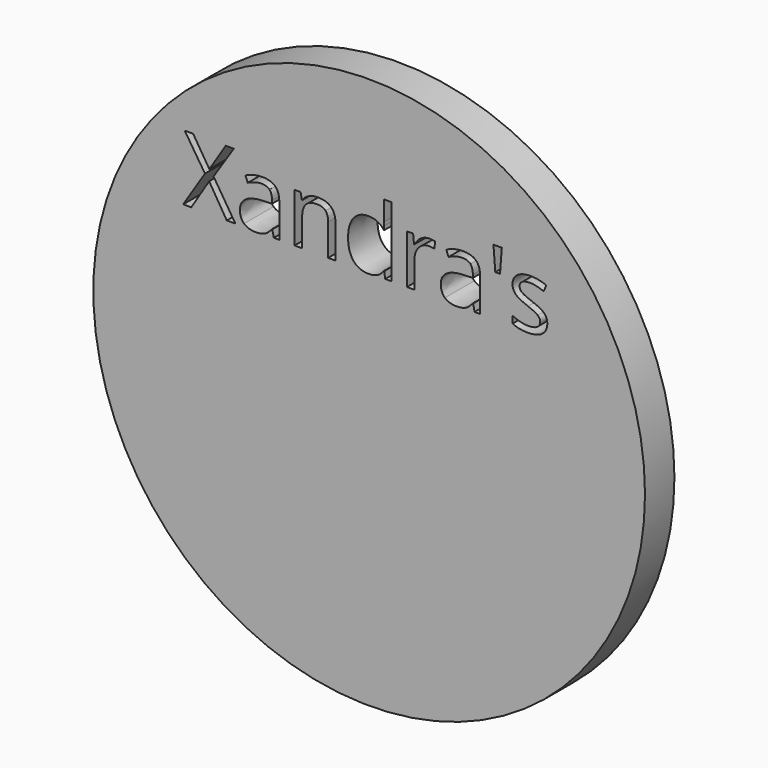
from build123d import *

# Parameters (mm, degrees)
F0_R     = 47.625
F1_DEPTH = 6.35


with BuildPart() as f1:
    # F0 (on Front) → F1 (new body)
    with BuildSketch(Plane.XZ):
        Circle(F0_R)
        Polygon((-26.8629209863, 24.0982941662), (-23.092664623, 18.1499421597), (-24.5834610735, 18.1499421597), (-27.6194445582, 23.1167913621), (-30.7098186264, 18.1499421597), (-32.1017231068, 18.1499421597), (-28.346300539, 24.0537927796), (-31.8470762836, 29.4458774539), (-30.3933643219, 29.4458774539), (-27.5897769671, 24.9710158031), (-24.7614666199, 29.4458774539), (-23.364617541, 29.4458774539), align=None, mode=Mode.SUBTRACT)
        with BuildLine():
            Line((-15.5125951084, 18.1499421597), (-16.4644303214, 18.1499421597))
            Line((-16.4644303214, 18.1499421597), (-16.7190771446, 19.3564241959))
            Line((-16.7190771446, 19.3564241959), (-16.780884626, 19.3564241959))
            add(Edge.make_bspline(
                [(-16.780884626, 19.3564241959), (-17.4137932352, 18.5603438359), (-18.0429933955, 18.2772655713)],
                knots=[0, 0, 0, 1, 1, 1], degree=2))
            add(Edge.make_bspline(
                [(-18.0429933955, 18.2772655713), (-18.6721935558, 17.9941873066), (-19.616611871, 17.9941873066)],
                knots=[0, 0, 0, 1, 1, 1], degree=2))
            add(Edge.make_bspline(
                [(-19.616611871, 17.9941873066), (-20.8750121916, 17.9941873066), (-21.5895066762, 18.6444020106)],
                knots=[0, 0, 0, 1, 1, 1], degree=2))
            add(Edge.make_bspline(
                [(-21.5895066762, 18.6444020106), (-22.3040011608, 19.2946167145), (-22.3040011608, 20.4912095538)],
                knots=[0, 0, 0, 1, 1, 1], degree=2))
            add(Edge.make_bspline(
                [(-22.3040011608, 20.4912095538), (-22.3040011608, 23.0549838808), (-18.2024566974, 23.1785988435)],
                knots=[0, 0, 0, 1, 1, 1], degree=2))
            Line((-18.2024566974, 23.1785988435), (-16.7660508305, 23.2255725294))
            Line((-16.7660508305, 23.2255725294), (-16.7660508305, 23.7521722706))
            add(Edge.make_bspline(
                [(-16.7660508305, 23.7521722706), (-16.7660508305, 24.7485088702), (-17.1937586015, 25.2231903271)],
                knots=[0, 0, 0, 1, 1, 1], degree=2))
            add(Edge.make_bspline(
                [(-17.1937586015, 25.2231903271), (-17.6214663726, 25.697871784), (-18.5658846878, 25.697871784)],
                knots=[0, 0, 0, 1, 1, 1], degree=2))
            add(Edge.make_bspline(
                [(-18.5658846878, 25.697871784), (-19.6240287688, 25.697871784), (-20.9590703663, 25.0501293792)],
                knots=[0, 0, 0, 1, 1, 1], degree=2))
            Line((-20.9590703663, 25.0501293792), (-21.354638247, 26.0316321833))
            add(Edge.make_bspline(
                [(-21.354638247, 26.0316321833), (-20.7291465356, 26.3703371812), (-19.9837483103, 26.5631765231)],
                knots=[0, 0, 0, 1, 1, 1], degree=2))
            add(Edge.make_bspline(
                [(-19.9837483103, 26.5631765231), (-19.2383500851, 26.7560158649), (-18.4867711117, 26.7560158649)],
                knots=[0, 0, 0, 1, 1, 1], degree=2))
            add(Edge.make_bspline(
                [(-18.4867711117, 26.7560158649), (-16.9737239679, 26.7560158649), (-16.2431595381, 26.0847866173)],
                knots=[0, 0, 0, 1, 1, 1], degree=2))
            add(Edge.make_bspline(
                [(-16.2431595381, 26.0847866173), (-15.5125951084, 25.4135573697), (-15.5125951084, 23.9301778169)],
                knots=[0, 0, 0, 1, 1, 1], degree=2))
            Line((-15.5125951084, 23.9301778169), (-15.5125951084, 18.1499421597))
        make_face(mode=Mode.SUBTRACT)
        with BuildLine():
            Line((-5.7939867386, 18.1499421597), (-7.0771100517, 18.1499421597))
            Line((-7.0771100517, 18.1499421597), (-7.0771100517, 23.6285573079))
            add(Edge.make_bspline(
                [(-7.0771100517, 23.6285573079), (-7.0771100517, 24.6619783963), (-7.5480830597, 25.1725081924)],
                knots=[0, 0, 0, 1, 1, 1], degree=2))
            add(Edge.make_bspline(
                [(-7.5480830597, 25.1725081924), (-8.0190560677, 25.6830379884), (-9.0252818643, 25.6830379884)],
                knots=[0, 0, 0, 1, 1, 1], degree=2))
            add(Edge.make_bspline(
                [(-9.0252818643, 25.6830379884), (-10.352906564, 25.6830379884), (-10.9709813777, 24.964835055)],
                knots=[0, 0, 0, 1, 1, 1], degree=2))
            add(Edge.make_bspline(
                [(-10.9709813777, 24.964835055), (-11.5890561913, 24.2466321215), (-11.5890561913, 22.5926639202)],
                knots=[0, 0, 0, 1, 1, 1], degree=2))
            Line((-11.5890561913, 22.5926639202), (-11.5890561913, 18.1499421597))
            Line((-11.5890561913, 18.1499421597), (-12.8721795045, 18.1499421597))
            Line((-12.8721795045, 18.1499421597), (-12.8721795045, 26.6175671067))
            Line((-12.8721795045, 26.6175671067), (-11.828869219, 26.6175671067))
            Line((-11.828869219, 26.6175671067), (-11.6211960817, 25.4580587563))
            Line((-11.6211960817, 25.4580587563), (-11.5593886003, 25.4580587563))
            add(Edge.make_bspline(
                [(-11.5593886003, 25.4580587563), (-11.1638207196, 26.0835504677), (-10.4530346839, 26.4284362137)],
                knots=[0, 0, 0, 1, 1, 1], degree=2))
            add(Edge.make_bspline(
                [(-10.4530346839, 26.4284362137), (-9.7422486482, 26.7733219597), (-8.8695270113, 26.7733219597)],
                knots=[0, 0, 0, 1, 1, 1], degree=2))
            add(Edge.make_bspline(
                [(-8.8695270113, 26.7733219597), (-7.3391737727, 26.7733219597), (-6.5665802556, 26.0353406322)],
                knots=[0, 0, 0, 1, 1, 1], degree=2))
            add(Edge.make_bspline(
                [(-6.5665802556, 26.0353406322), (-5.7939867386, 25.2973593047), (-5.7939867386, 23.6730586944)],
                knots=[0, 0, 0, 1, 1, 1], degree=2))
            Line((-5.7939867386, 23.6730586944), (-5.7939867386, 18.1499421597))
        make_face(mode=Mode.SUBTRACT)
        with BuildLine():
            add(Edge.make_bspline(
                [(8.9384445196, 26.324599645), (9.6034930191, 26.7733219597), (10.3995733791, 26.7733219597)],
                knots=[0, 0, 0, 1, 1, 1], degree=2))
            add(Edge.make_bspline(
                [(10.3995733791, 26.7733219597), (10.9632576091, 26.7733219597), (11.4107437742, 26.679374588)],
                knots=[0, 0, 0, 1, 1, 1], degree=2))
            Line((11.4107437742, 26.679374588), (11.2327382279, 25.4901986466))
            add(Edge.make_bspline(
                [(11.2327382279, 25.4901986466), (10.7086107859, 25.6063967115), (10.3056260074, 25.6063967115)],
                knots=[0, 0, 0, 1, 1, 1], degree=2))
            add(Edge.make_bspline(
                [(10.3056260074, 25.6063967115), (9.2771495175, 25.6063967115), (8.5478212374, 24.7719957131)],
                knots=[0, 0, 0, 1, 1, 1], degree=2))
            add(Edge.make_bspline(
                [(8.5478212374, 24.7719957131), (7.8184929573, 23.9375947147), (7.8184929573, 22.6940281896)],
                knots=[0, 0, 0, 1, 1, 1], degree=2))
            Line((7.8184929573, 22.6940281896), (7.8184929573, 18.1499421597))
            Line((7.8184929573, 18.1499421597), (6.5353696441, 18.1499421597))
            Line((6.5353696441, 18.1499421597), (6.5353696441, 26.6175671067))
            Line((6.5353696441, 26.6175671067), (7.5935137251, 26.6175671067))
            Line((7.5935137251, 26.6175671067), (7.7418516804, 25.0501293792))
            Line((7.7418516804, 25.0501293792), (7.8036591618, 25.0501293792))
            add(Edge.make_bspline(
                [(7.8036591618, 25.0501293792), (8.2733960201, 25.8758773303), (8.9384445196, 26.324599645)],
                knots=[0, 0, 0, 1, 1, 1], degree=2))
        make_face(mode=Mode.SUBTRACT)
        with BuildLine():
            Line((19.1539850396, 18.1499421597), (18.2021498266, 18.1499421597))
            Line((18.2021498266, 18.1499421597), (17.9475030034, 19.3564241959))
            Line((17.9475030034, 19.3564241959), (17.885695522, 19.3564241959))
            add(Edge.make_bspline(
                [(17.885695522, 19.3564241959), (17.2527869129, 18.5603438359), (16.6235867526, 18.2772655713)],
                knots=[0, 0, 0, 1, 1, 1], degree=2))
            add(Edge.make_bspline(
                [(16.6235867526, 18.2772655713), (15.9943865923, 17.9941873066), (15.049968277, 17.9941873066)],
                knots=[0, 0, 0, 1, 1, 1], degree=2))
            add(Edge.make_bspline(
                [(15.049968277, 17.9941873066), (13.7915679564, 17.9941873066), (13.0770734718, 18.6444020106)],
                knots=[0, 0, 0, 1, 1, 1], degree=2))
            add(Edge.make_bspline(
                [(13.0770734718, 18.6444020106), (12.3625789872, 19.2946167145), (12.3625789872, 20.4912095538)],
                knots=[0, 0, 0, 1, 1, 1], degree=2))
            add(Edge.make_bspline(
                [(12.3625789872, 20.4912095538), (12.3625789872, 23.0549838808), (16.4641234506, 23.1785988435)],
                knots=[0, 0, 0, 1, 1, 1], degree=2))
            Line((16.4641234506, 23.1785988435), (17.9005293176, 23.2255725294))
            Line((17.9005293176, 23.2255725294), (17.9005293176, 23.7521722706))
            add(Edge.make_bspline(
                [(17.9005293176, 23.7521722706), (17.9005293176, 24.7485088702), (17.4728215465, 25.2231903271)],
                knots=[0, 0, 0, 1, 1, 1], degree=2))
            add(Edge.make_bspline(
                [(17.4728215465, 25.2231903271), (17.0451137755, 25.697871784), (16.1006954602, 25.697871784)],
                knots=[0, 0, 0, 1, 1, 1], degree=2))
            add(Edge.make_bspline(
                [(16.1006954602, 25.697871784), (15.0425513792, 25.697871784), (13.7075097818, 25.0501293792)],
                knots=[0, 0, 0, 1, 1, 1], degree=2))
            Line((13.7075097818, 25.0501293792), (13.311941901, 26.0316321833))
            add(Edge.make_bspline(
                [(13.311941901, 26.0316321833), (13.9374336124, 26.3703371812), (14.6828318377, 26.5631765231)],
                knots=[0, 0, 0, 1, 1, 1], degree=2))
            add(Edge.make_bspline(
                [(14.6828318377, 26.5631765231), (15.428230063, 26.7560158649), (16.1798090364, 26.7560158649)],
                knots=[0, 0, 0, 1, 1, 1], degree=2))
            add(Edge.make_bspline(
                [(16.1798090364, 26.7560158649), (17.6928561802, 26.7560158649), (18.4234206099, 26.0847866173)],
                knots=[0, 0, 0, 1, 1, 1], degree=2))
            add(Edge.make_bspline(
                [(18.4234206099, 26.0847866173), (19.1539850396, 25.4135573697), (19.1539850396, 23.9301778169)],
                knots=[0, 0, 0, 1, 1, 1], degree=2))
            Line((19.1539850396, 23.9301778169), (19.1539850396, 18.1499421597))
        make_face(mode=Mode.SUBTRACT)
        with BuildLine():
            add(Edge.make_bspline(
                [(30.227413401, 21.8583910416), (30.7564854415, 21.3021237093), (30.7564854415, 20.4590696635)],
                knots=[0, 0, 0, 1, 1, 1], degree=2))
            add(Edge.make_bspline(
                [(30.7564854415, 20.4590696635), (30.7564854415, 19.2773106198), (29.8763469069, 18.6357489632)],
                knots=[0, 0, 0, 1, 1, 1], degree=2))
            add(Edge.make_bspline(
                [(29.8763469069, 18.6357489632), (28.9962083722, 17.9941873066), (27.4040476523, 17.9941873066)],
                knots=[0, 0, 0, 1, 1, 1], degree=2))
            add(Edge.make_bspline(
                [(27.4040476523, 17.9941873066), (25.7204118599, 17.9941873066), (24.7784658439, 18.5282039456)],
                knots=[0, 0, 0, 1, 1, 1], degree=2))
            Line((24.7784658439, 18.5282039456), (24.7784658439, 19.7173798871))
            add(Edge.make_bspline(
                [(24.7784658439, 19.7173798871), (25.3891237597, 19.4083424802), (26.0875482992, 19.2315730835)],
                knots=[0, 0, 0, 1, 1, 1], degree=2))
            add(Edge.make_bspline(
                [(26.0875482992, 19.2315730835), (26.7859728386, 19.0548036868), (27.4361875426, 19.0548036868)],
                knots=[0, 0, 0, 1, 1, 1], degree=2))
            add(Edge.make_bspline(
                [(27.4361875426, 19.0548036868), (28.4399410399, 19.0548036868), (28.9801384271, 19.3749664403)],
                knots=[0, 0, 0, 1, 1, 1], degree=2))
            add(Edge.make_bspline(
                [(28.9801384271, 19.3749664403), (29.5203358142, 19.6951291938), (29.5203358142, 20.3527607955)],
                knots=[0, 0, 0, 1, 1, 1], degree=2))
            add(Edge.make_bspline(
                [(29.5203358142, 20.3527607955), (29.5203358142, 20.8472206464), (29.0926280431, 21.1982871406)],
                knots=[0, 0, 0, 1, 1, 1], degree=2))
            add(Edge.make_bspline(
                [(29.0926280431, 21.1982871406), (28.6649202721, 21.5493536347), (27.4188814478, 22.0289796901)],
                knots=[0, 0, 0, 1, 1, 1], degree=2))
            add(Edge.make_bspline(
                [(27.4188814478, 22.0289796901), (26.2371224041, 22.4690489574), (25.7389541043, 22.7978647583)],
                knots=[0, 0, 0, 1, 1, 1], degree=2))
            add(Edge.make_bspline(
                [(25.7389541043, 22.7978647583), (25.2407858045, 23.1266805592), (24.9972643279, 23.5432629836)],
                knots=[0, 0, 0, 1, 1, 1], degree=2))
            add(Edge.make_bspline(
                [(24.9972643279, 23.5432629836), (24.7537428513, 23.959845408), (24.7537428513, 24.5383634335)],
                knots=[0, 0, 0, 1, 1, 1], degree=2))
            add(Edge.make_bspline(
                [(24.7537428513, 24.5383634335), (24.7537428513, 25.5742568212), (25.5967968971, 26.1737893905)],
                knots=[0, 0, 0, 1, 1, 1], degree=2))
            add(Edge.make_bspline(
                [(25.5967968971, 26.1737893905), (26.439850943, 26.7733219597), (27.9059244009, 26.7733219597)],
                knots=[0, 0, 0, 1, 1, 1], degree=2))
            add(Edge.make_bspline(
                [(27.9059244009, 26.7733219597), (29.2731058887, 26.7733219597), (30.5809521944, 26.2170546274)],
                knots=[0, 0, 0, 1, 1, 1], degree=2))
            Line((30.5809521944, 26.2170546274), (30.1235768323, 25.173744342))
            add(Edge.make_bspline(
                [(30.1235768323, 25.173744342), (28.8503427162, 25.697871784), (27.8144493285, 25.697871784)],
                knots=[0, 0, 0, 1, 1, 1], degree=2))
            add(Edge.make_bspline(
                [(27.8144493285, 25.697871784), (26.9021709036, 25.697871784), (26.4386147933, 25.41232122)],
                knots=[0, 0, 0, 1, 1, 1], degree=2))
            add(Edge.make_bspline(
                [(26.4386147933, 25.41232122), (25.9750586831, 25.1267706561), (25.9750586831, 24.6248939075)],
                knots=[0, 0, 0, 1, 1, 1], degree=2))
            add(Edge.make_bspline(
                [(25.9750586831, 24.6248939075), (25.9750586831, 24.2837166103), (26.1493557805, 24.0451397323)],
                knots=[0, 0, 0, 1, 1, 1], degree=2))
            add(Edge.make_bspline(
                [(26.1493557805, 24.0451397323), (26.323652878, 23.8065628542), (26.7093315617, 23.5902366694)],
                knots=[0, 0, 0, 1, 1, 1], degree=2))
            add(Edge.make_bspline(
                [(26.7093315617, 23.5902366694), (27.0950102454, 23.3739104846), (28.1927111145, 22.9635088084)],
                knots=[0, 0, 0, 1, 1, 1], degree=2))
            add(Edge.make_bspline(
                [(28.1927111145, 22.9635088084), (29.6983413605, 22.4146583738), (30.227413401, 21.8583910416)],
                knots=[0, 0, 0, 1, 1, 1], degree=2))
        make_face(mode=Mode.SUBTRACT)
        with BuildLine():
            Line((2.7725301786, 18.1499421597), (2.6019415301, 19.2847275175))
            Line((2.6019415301, 19.2847275175), (2.5327171509, 19.2847275175))
            add(Edge.make_bspline(
                [(2.5327171509, 19.2847275175), (1.6451617185, 17.9941873066), (-0.1250045478, 17.9941873066)],
                knots=[0, 0, 0, 1, 1, 1], degree=2))
            add(Edge.make_bspline(
                [(-0.1250045478, 17.9941873066), (-1.7863896468, 17.9941873066), (-2.7097934184, 19.1302088141)],
                knots=[0, 0, 0, 1, 1, 1], degree=2))
            add(Edge.make_bspline(
                [(-2.7097934184, 19.1302088141), (-3.63319719, 20.2662303216), (-3.63319719, 22.3602677902)],
                knots=[0, 0, 0, 1, 1, 1], degree=2))
            add(Edge.make_bspline(
                [(-3.63319719, 22.3602677902), (-3.63319719, 24.4543052589), (-2.7060849696, 25.6138136093)],
                knots=[0, 0, 0, 1, 1, 1], degree=2))
            add(Edge.make_bspline(
                [(-2.7060849696, 25.6138136093), (-1.7789727491, 26.7733219597), (-0.1250045478, 26.7733219597)],
                knots=[0, 0, 0, 1, 1, 1], degree=2))
            add(Edge.make_bspline(
                [(-0.1250045478, 26.7733219597), (1.5981880327, 26.7733219597), (2.5178833554, 25.5198662376)],
                knots=[0, 0, 0, 1, 1, 1], degree=2))
            Line((2.5178833554, 25.5198662376), (2.6192476249, 25.5198662376))
            Line((2.6192476249, 25.5198662376), (2.5648570413, 26.1305241535))
            Line((2.5648570413, 26.1305241535), (2.5327171509, 26.7263482739))
            Line((2.5327171509, 26.7263482739), (2.5327171509, 30.1727334348))
            Line((2.5327171509, 30.1727334348), (3.8158404641, 30.1727334348))
            Line((3.8158404641, 30.1727334348), (3.8158404641, 18.1499421597))
            Line((3.8158404641, 18.1499421597), (2.7725301786, 18.1499421597))
        make_face(mode=Mode.SUBTRACT)
        Polygon((21.4631125434, 29.4458774539), (22.8995184104, 29.4458774539), (22.5904810035, 25.3665836838), (21.779566848, 25.3665836838), align=None, mode=Mode.SUBTRACT)
    extrude(amount=F1_DEPTH)


solid = f1.part
